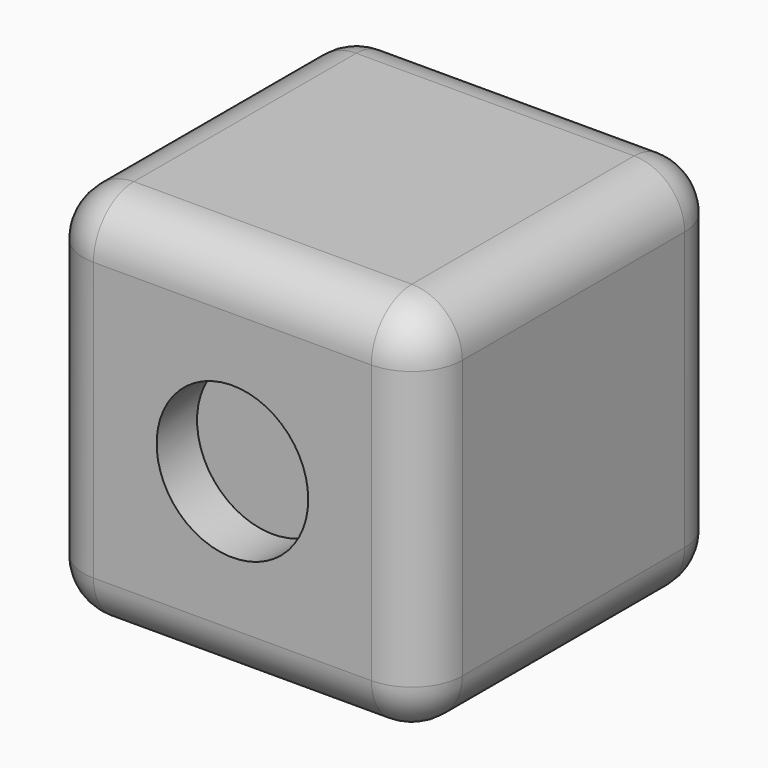
from build123d import *

# Parameters (mm, degrees)
F0_W     = 15
F0_H     = 15
F1_DEPTH = 15
F2_R     = 2
F3_R     = 3
F4_DEPTH = 2


with BuildPart() as f1:
    # F0 (on Front) → F1 (new body)
    with BuildSketch(Plane.XZ):
        Rectangle(F0_W, F0_H)
    extrude(amount=-F1_DEPTH)

    # F2
    f2_edges = [f1.edges().sort_by_distance(p)[0] for p in [
        (7.5, 7.5, 7.5),
        (-7.5, 7.5, 7.5),
        (0, 0, 7.5),
        (0, 15, 7.5),
        (7.5, 7.5, -7.5),
        (7.5, 0, 0),
        (7.5, 15, 0),
        (-7.5, 0, 0),
        (0, 0, -7.5),
        (-7.5, 7.5, -7.5),
        (0, 15, -7.5),
        (-7.5, 15, 0),
    ]]
    fillet(f2_edges, radius=F2_R)

    # F3 (on face) → F4 (cut)
    with BuildSketch(Plane.XZ):
        Circle(F3_R)
    extrude(amount=-F4_DEPTH, mode=Mode.SUBTRACT)


solid = f1.part
